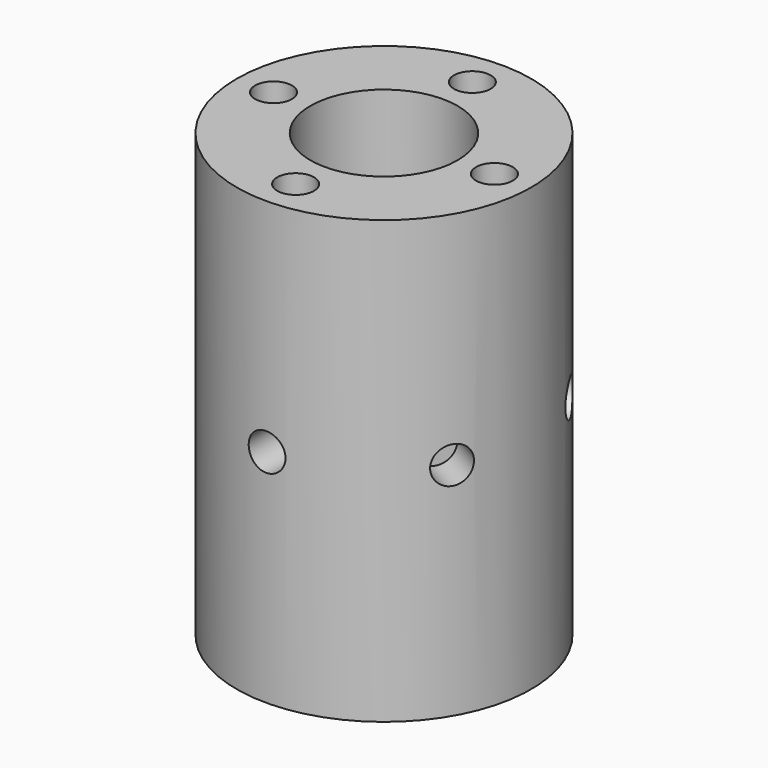
from build123d import *

# Parameters (mm, degrees)
F0_W      = 50.8
F0_H      = 152.4
F3_R      = 6.35
F4_DEPTH  = 12.7
F5_COUNT  = 6
F8_R      = 25.4
F9_DEPTH  = 152.4
F12_R     = 6.35
F13_DEPTH = 25.4
F14_COUNT = 4


with BuildPart() as f1:
    # F0 (on Front) → F1 (revolve)
    with BuildSketch(Plane.XZ):
        with Locations((-25.4, 0)):
            Rectangle(F0_W, F0_H)
    revolve(axis=Axis((0, 0, 0), (0, 0, -1)))


with BuildPart() as f4:
    # F3 (on offset) → F4 (new body)
    with BuildSketch(Plane.XZ.offset(50.8)):
        Circle(F3_R)
    extrude(amount=-F4_DEPTH)


with BuildPart() as f5_1:
    # F5: instance of F4
    add(f4.part.rotate(Axis((0, 0, -76.2), (0, 0, -1)), 1 * 360 / F5_COUNT))


with BuildPart() as f5_2:
    # F5: instance of F4
    add(f4.part.rotate(Axis((0, 0, -76.2), (0, 0, -1)), 2 * 360 / F5_COUNT))


with BuildPart() as f5_3:
    # F5: instance of F4
    add(f4.part.rotate(Axis((0, 0, -76.2), (0, 0, -1)), 3 * 360 / F5_COUNT))


with BuildPart() as f5_4:
    # F5: instance of F4
    add(f4.part.rotate(Axis((0, 0, -76.2), (0, 0, -1)), 4 * 360 / F5_COUNT))


with BuildPart() as f5_5:
    # F5: instance of F4
    add(f4.part.rotate(Axis((0, 0, -76.2), (0, 0, -1)), 5 * 360 / F5_COUNT))


with BuildPart() as f1_1:
    add(f1.part)

    # F6: cut F4, F5_1, F5_2, F5_3, F5_4, F5_5
    add(f4.part, mode=Mode.SUBTRACT)
    add(f5_1.part, mode=Mode.SUBTRACT)
    add(f5_2.part, mode=Mode.SUBTRACT)
    add(f5_3.part, mode=Mode.SUBTRACT)
    add(f5_4.part, mode=Mode.SUBTRACT)
    add(f5_5.part, mode=Mode.SUBTRACT)


with BuildPart() as f9:
    # F8 (on offset) → F9 (new body)
    with BuildSketch(Plane.XY.offset(76.2)):
        Circle(F8_R)
    extrude(amount=-F9_DEPTH)


with BuildPart() as f1_2:
    add(f1_1.part)

    # F10: cut F9
    add(f9.part, mode=Mode.SUBTRACT)


with BuildPart() as f13:
    # F12 (on offset) → F13 (new body)
    with BuildSketch(Plane.XY.offset(76.2)):
        with Locations((0, 38.1)):
            Circle(F12_R)
    extrude(amount=-F13_DEPTH)


with BuildPart() as f14_1:
    # F14: instance of F13
    add(f13.part.rotate(Axis((0, 0, 0), (0, 0, -1)), 1 * 360 / F14_COUNT))


with BuildPart() as f14_2:
    # F14: instance of F13
    add(f13.part.rotate(Axis((0, 0, 0), (0, 0, -1)), 2 * 360 / F14_COUNT))


with BuildPart() as f14_3:
    # F14: instance of F13
    add(f13.part.rotate(Axis((0, 0, 0), (0, 0, -1)), 3 * 360 / F14_COUNT))


with BuildPart() as f1_3:
    add(f1_2.part)

    # F15: cut F13, F14_1, F14_2, F14_3
    add(f13.part, mode=Mode.SUBTRACT)
    add(f14_1.part, mode=Mode.SUBTRACT)
    add(f14_2.part, mode=Mode.SUBTRACT)
    add(f14_3.part, mode=Mode.SUBTRACT)


solid = f1_3.part
